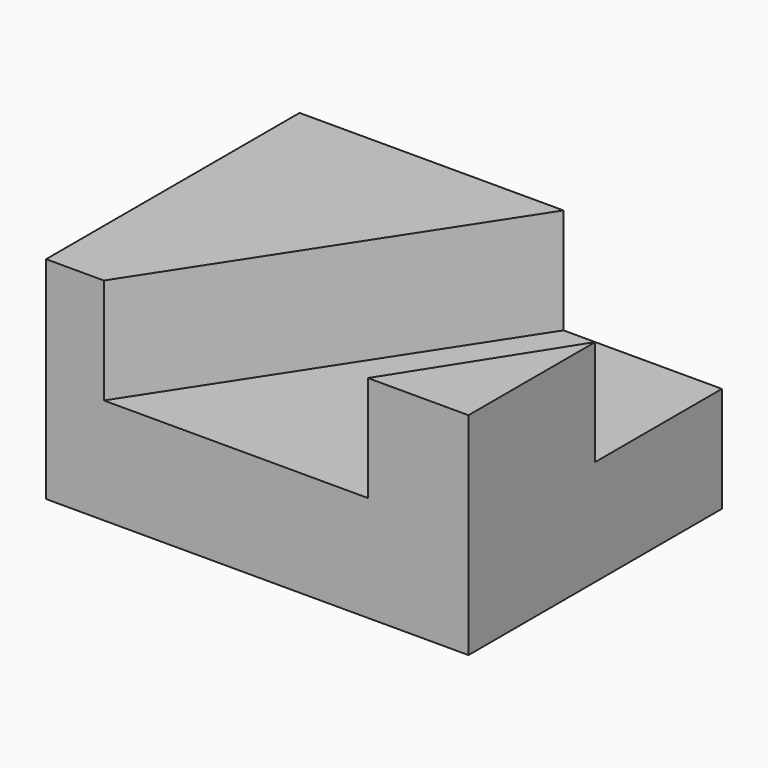
from build123d import *

# Parameters (mm, degrees)
F0_W     = 50.8
F0_H     = 38.1
F1_DEPTH = 25.4
F4_DEPTH = 12.7


with BuildPart() as f1:
    # F0 (on Top) → F1 (new body)
    with BuildSketch(Plane.XY):
        with Locations((1.085408, 8.178176)):
            Rectangle(F0_W, F0_H)
    extrude(amount=F1_DEPTH)

    # F2 (on face) → F4 (cut)
    with BuildSketch(Plane.XY.offset(25.4)):
        Polygon((7.435408, 27.228176), (-17.36651, -10.871824), (14.38349, -10.871824), (26.485408, 8.178176), (26.485408, 27.228176), align=None)
    extrude(amount=-F4_DEPTH, mode=Mode.SUBTRACT)


solid = f1.part
